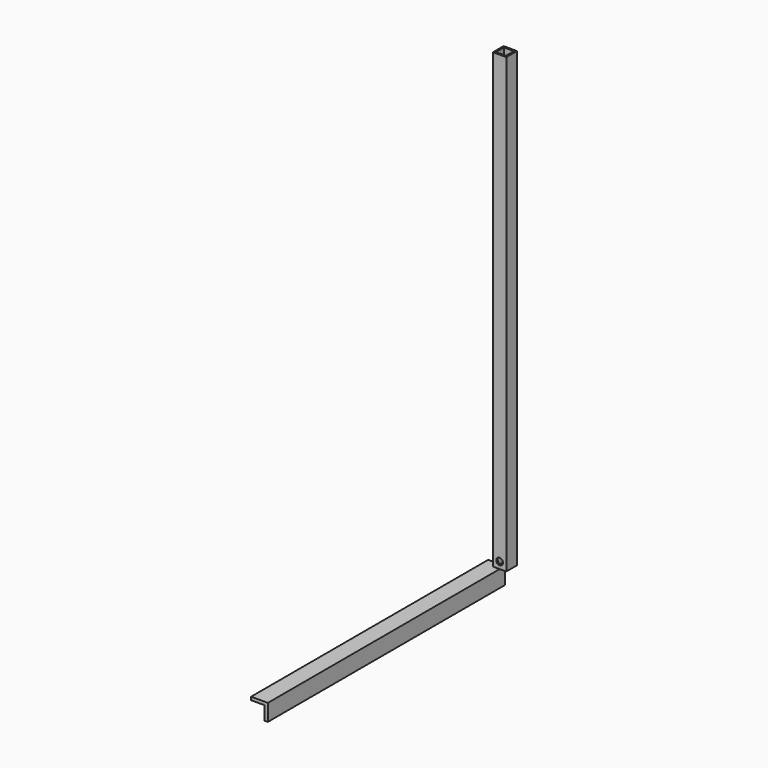
from build123d import *

# Parameters (mm, degrees)
F0_W     = 12.7
F0_H     = 12.7
F0_W_2   = 9.525
F0_H_2   = 9.525
F1_DEPTH = 431.8
F2_R     = 3.175
F3_DEPTH = 12.701
F5_DEPTH = 282.575


with BuildPart() as f1:
    # F0 (on Top) → F1 (new body)
    with BuildSketch(Plane.XY):
        Rectangle(F0_W, F0_H)
        Rectangle(F0_W_2, F0_H_2, mode=Mode.SUBTRACT)
    extrude(amount=F1_DEPTH)

    # F2 (on face) → F3 (cut, through all)
    with BuildSketch(Plane(origin=(0, 6.35, 0), x_dir=(-1, 0, 0), z_dir=(0, 1, 0))):
        with Locations((0, 6.35)):
            Circle(F2_R)
    extrude(amount=-F3_DEPTH, mode=Mode.SUBTRACT)


with BuildPart() as f5:
    # F4 (on Front) → F5 (new body)
    with BuildSketch(Plane.XZ):
        Polygon((0, -16.032034), (0, -0.032034), (-16, -0.032034), (-16, -3.032034), (-3, -3.032034), (-3, -16.032034), align=None)
    extrude(amount=F5_DEPTH)


solid = Compound([f1.part, f5.part])
